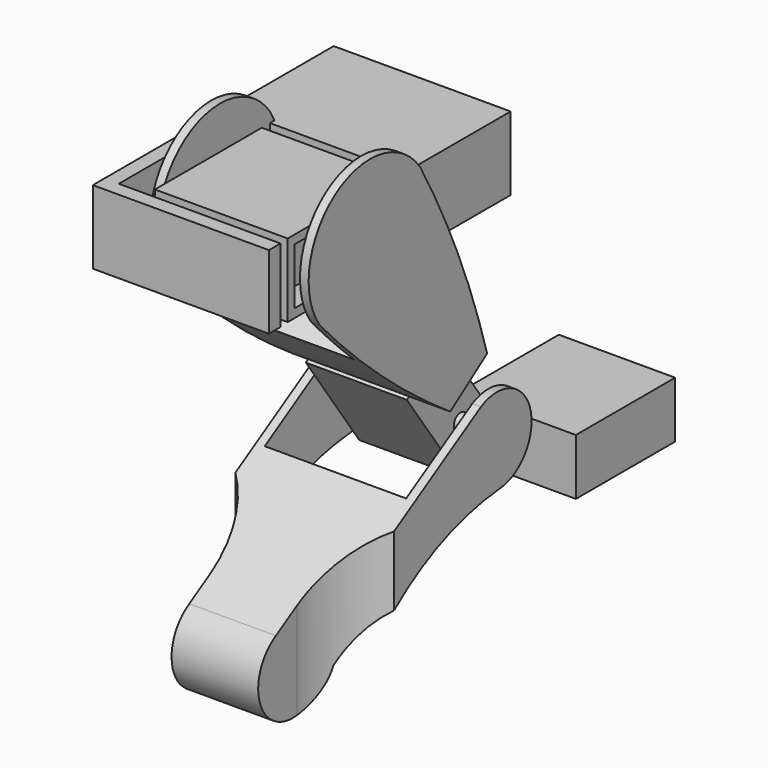
from build123d import *

# Parameters (mm, degrees)
PAD_DEPTH               = 55
SKETCH001_W             = 49
SKETCH001_H             = 60.9
POCKET_DEPTH            = 500
POCKET001_DEPTH         = 500
PAD003_DEPTH            = 55
SKETCH006_W             = 49
SKETCH006_H             = 53.15
POCKET002_DEPTH         = 100
BODY002_PLACEMENT_ANGLE = 35
SKETCH007_W             = 40.3
SKETCH007_H             = 19.5
SKETCH007_R             = 2.9
PAD004_DEPTH            = 35
SKETCH008_R             = 2.9
PAD005_DEPTH            = 43
SKETCH009_W             = 19.5
SKETCH009_H             = 40.3
SKETCH009_R             = 2.9
PAD006_DEPTH            = 35
SKETCH010_R             = 2.9
PAD007_DEPTH            = 43
BODY004_PLACEMENT_ANGLE = 35
SKETCH012_W             = 46
SKETCH012_H             = 46.3
PAD008_DEPTH            = 25.5
SKETCH011_W             = 43
SKETCH011_H             = 40.3
POCKET003_DEPTH         = 19.5
SKETCH013_W             = 40.3
SKETCH013_H             = 43
PAD001_DEPTH            = 19.5
PAD002_DEPTH            = 25.5
SKETCH004_W             = 40.3
SKETCH004_H             = 43
POCKET004_DEPTH         = 19.5


with BuildPart() as lowerlegbody:
    # Sketch → Pad (new body)
    with BuildSketch(Plane.YZ):
        with BuildLine():
            ThreePointArc((28.980657, 15.850683), (42.584206, 34.802551), (21.20392, 44.135996))
            Line((-52.001908, 0), (21.20392, 44.135996))
            ThreePointArc((-52.001908, 0), (-53.920439, -24.881725), (-30.209248, -17.099671))
            ThreePointArc((28.980657, 15.850683), (-4.124344, 5.680733), (-30.209248, -17.099671))
        make_face()
    extrude(amount=PAD_DEPTH)

    # Sketch001 → Pocket (cut)
    with BuildSketch(Plane(origin=(27.5, 23, -50), x_dir=(1, 0, 0), z_dir=(0, 0, 1))):
        Rectangle(SKETCH001_W, SKETCH001_H)
    extrude(amount=POCKET_DEPTH, mode=Mode.SUBTRACT)

    # Sketch002 → Pocket001 (cut)
    with BuildSketch(Plane(origin=(27.5, -35, -50), x_dir=(1, 0, 0), z_dir=(0, 0, 1))):
        with BuildLine():
            Line((-49.999941, -8.209968), (-49.999941, -38.209968))
            Line((-49.999941, -38.209968), (-15, -38.209968))
            Line((-15, -38.209968), (-15, -7.838993))
            ThreePointArc((-15, -7.838993), (-25.381364, 16.670931), (-49.999941, 26.791938))
            Line((-49.999941, 26.791938), (-49.999941, -8.209968))
        make_face()
        with BuildLine():
            Line((15, -7.838993), (15, -38.220366))
            Line((15, -38.220366), (49.997922, -38.220366))
            Line((49.997922, -38.220366), (49.997922, -8.220366))
            Line((49.99995, 26.779634), (49.997922, -8.220366))
            ThreePointArc((49.99995, 26.779634), (25.385111, 16.663555), (15, -7.838993))
        make_face()
    extrude(amount=POCKET001_DEPTH, mode=Mode.SUBTRACT)


with BuildPart() as lowerlegbody_1:
    # Body placement: moved
    add(lowerlegbody.part.moved(Location((-27.5, 0, -7))))


with BuildPart() as upperlegbody:
    # Sketch005 → Pad003 (new body)
    with BuildSketch(Plane.YZ):
        with BuildLine():
            ThreePointArc((26.575, 100.000004), (-1e-06, 126.575), (-26.575, 100.000002))
            ThreePointArc((-26.575, 100.000002), (-19.764951, 63.039113), (-8.576861, 27.16))
            Line((-8.576861, 27.16), (10.923139, 27.16))
            ThreePointArc((10.923139, 27.16), (20.918479, 63.113839), (26.575, 100.000004))
        make_face()
    extrude(amount=PAD003_DEPTH)

    # Sketch006 → Pocket002 (cut)
    with BuildSketch(Plane(origin=(3, 50, 0), x_dir=(1, 0, 0), z_dir=(0, -1, 0))):
        with Locations((24.5, 100)):
            Rectangle(SKETCH006_W, SKETCH006_H)
    extrude(amount=POCKET002_DEPTH, mode=Mode.SUBTRACT)


with BuildPart() as upperlegbody_1:
    # Body002 placement: moved
    add(upperlegbody.part.moved(Location((-27.5, 30.5, 23.75))).rotate(Axis((-27.5, 30.5, 23.75), (1, 0, 0)), BODY002_PLACEMENT_ANGLE))


with BuildPart() as obj1:
    # Sketch007 → Pad004 (new body)
    with BuildSketch(Plane.YZ):
        with Locations((-6.425, 100)):
            Rectangle(SKETCH007_W, SKETCH007_H)
        with Locations((0, 100)):
            Circle(SKETCH007_R, mode=Mode.SUBTRACT)
    extrude(amount=PAD004_DEPTH)

    # Sketch008 → Pad005 (join)
    with BuildSketch(Plane.YZ):
        with Locations((0, 100)):
            Circle(SKETCH008_R)
    extrude(amount=PAD005_DEPTH)


with BuildPart() as obj1_1:
    # Body003 placement: moved
    add(obj1.part.moved(Location((-21.5, -25.5, 4.75))))


with BuildPart() as obj2:
    # Sketch009 → Pad006 (new body)
    with BuildSketch(Plane.YZ):
        with Locations((0, 7.010211)):
            Rectangle(SKETCH009_W, SKETCH009_H)
        with Locations((0, 0.585211)):
            Circle(SKETCH009_R, mode=Mode.SUBTRACT)
    extrude(amount=PAD006_DEPTH)

    # Sketch010 → Pad007 (join)
    with BuildSketch(Plane.YZ):
        with Locations((0, 0.59)):
            Circle(SKETCH010_R)
    extrude(amount=PAD007_DEPTH)


with BuildPart() as obj2_1:
    # Body004 placement: moved
    add(obj2.part.moved(Location((-21.75, 30.5, 23.75))).rotate(Axis((-21.75, 30.5, 23.75), (1, 0, 0)), BODY004_PLACEMENT_ANGLE))


with BuildPart() as obj3:
    # Sketch012 → Pad008 (new body)
    with BuildSketch(Plane.XY):
        with Locations((20, 20.15)):
            Rectangle(SKETCH012_W, SKETCH012_H)
    extrude(amount=PAD008_DEPTH)

    # Sketch011 → Pocket003 (cut)
    with BuildSketch(Plane.XY.offset(3)):
        with Locations((21.5, 20.15)):
            Rectangle(SKETCH011_W, SKETCH011_H)
    extrude(amount=POCKET003_DEPTH, mode=Mode.SUBTRACT)


with BuildPart() as obj3_1:
    # Body006 placement: moved
    add(obj3.part.moved(Location((-21.5, -52, 92))))


with BuildPart() as obj4:
    # Sketch013 → Pad001 (new body)
    with BuildSketch(Plane.XY):
        with Locations((20.15, 67.8)):
            Rectangle(SKETCH013_W, SKETCH013_H)
    extrude(amount=PAD001_DEPTH)


with BuildPart() as obj4_1:
    # Body001 placement: moved
    add(obj4.part.moved(Location((0, 0, 3))))


with BuildPart() as obj5:
    # Sketch003 → Pad002 (new body)
    with BuildSketch(Plane.XY):
        Polygon((43.593663, 46.3), (43.593663, 92.3), (-17.706337, 92.3), (-17.706337, -12), (43.293663, -12), (43.293663, -7), (-12.706337, -7), (-12.706337, 46.3), align=None)
    extrude(amount=PAD002_DEPTH)

    # Sketch004 → Pocket004 (cut)
    with BuildSketch(Plane.XY.offset(3)):
        with Locations((20.15, 67.8)):
            Rectangle(SKETCH004_W, SKETCH004_H)
    extrude(amount=POCKET004_DEPTH, mode=Mode.SUBTRACT)


with BuildPart() as obj5_1:
    # Body007 placement: moved
    add(obj5.part.moved(Location((-21.5, -51.5, 92))))


solid = Compound([lowerlegbody_1.part, upperlegbody_1.part, obj1_1.part, obj2_1.part, obj3_1.part, obj4_1.part, obj5_1.part])
